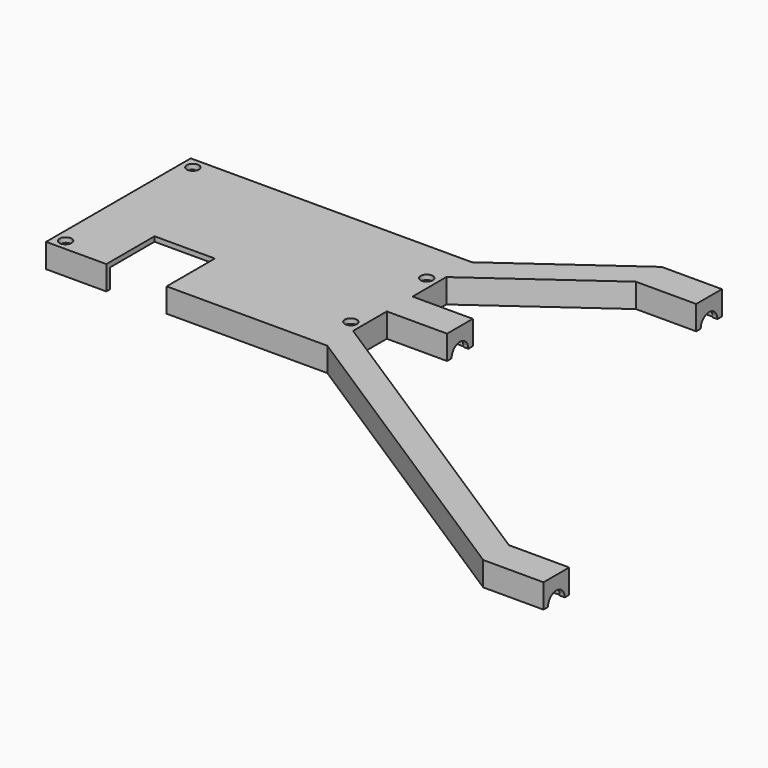
from build123d import *

# Parameters (mm, degrees)
PAD001_DEPTH    = 6
THICKNESS001_T  = -1.2
SKETCH011_R     = 1.5
POCKET003_DEPTH = 1.2
SKETCH012_W     = 15
SKETCH012_H     = 15
POCKET004_DEPTH = 6.001
SKETCH013_R     = 2.6
POCKET005_DEPTH = 1.2
SKETCH014_R     = 2.6
POCKET006_DEPTH = 1.2
SKETCH015_R     = 2.6
POCKET007_DEPTH = 1.2


with BuildPart() as part:
    # Sketch004 → Pad001 (new body)
    with BuildSketch(Plane.XY):
        Polygon((80, -74), (65, -74), (-15, -22.5), (-85, -22.5), (-85, 22.5), (-15, 22.5), (15, 44), (30, 44), (30, 36), (15, 36), (-15, 14.5), (-15, 4), (0, 4), (0, -4), (-15, -4), (-15, -14.5), (65, -66), (80, -66), align=None)
    extrude(amount=PAD001_DEPTH)

    # Thickness001
    thickness001_openings = [part.faces().sort_by_distance(p)[0] for p in [
        (-29.840547, -5.671982, 0),
    ]]
    offset(amount=THICKNESS001_T, openings=thickness001_openings, kind=Kind.INTERSECTION)

    # Sketch011 (on Face19 of Thickness001) → Pocket003 (cut)
    with BuildSketch(Plane.XY.offset(6)):
        with Locations((-82.3, 19.8)):
            Circle(SKETCH011_R)
        with Locations((-82.3, -19.8)):
            Circle(SKETCH011_R)
        with Locations((-17.7, 11.8)):
            Circle(SKETCH011_R)
        with Locations((-17.7, -11.8)):
            Circle(SKETCH011_R)
    extrude(amount=-POCKET003_DEPTH, mode=Mode.SUBTRACT)

    # Sketch012 (on Face5 of Pocket003) → Pocket004 (cut, through all)
    with BuildSketch(Plane.XY.offset(6)):
        with Locations((-62.5, -15)):
            Rectangle(SKETCH012_W, SKETCH012_H)
    extrude(amount=-POCKET004_DEPTH, mode=Mode.SUBTRACT)

    # Sketch013 (on Face16 of Pocket004) → Pocket005 (cut)
    with BuildSketch(Plane.YZ.offset(30)):
        with Locations((40, 0)):
            Circle(SKETCH013_R)
    extrude(amount=-POCKET005_DEPTH, mode=Mode.SUBTRACT)

    # Sketch014 (on Face11 of Pocket005) → Pocket006 (cut)
    with BuildSketch(Plane.YZ):
        Circle(SKETCH014_R)
    extrude(amount=-POCKET006_DEPTH, mode=Mode.SUBTRACT)

    # Sketch015 (on Face2 of Pocket006) → Pocket007 (cut)
    with BuildSketch(Plane.YZ.offset(80)):
        with Locations((-70, 0)):
            Circle(SKETCH015_R)
    extrude(amount=-POCKET007_DEPTH, mode=Mode.SUBTRACT)


with BuildPart() as part_1:
    # Body001 placement: moved
    add(part.part.moved(Location((0, 0, 11))))


solid = part_1.part
